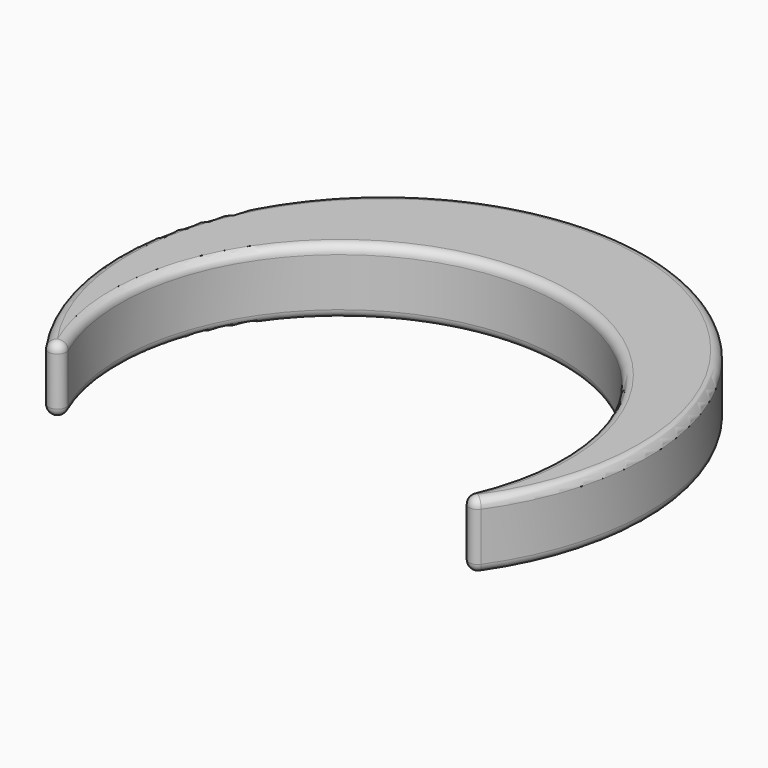
from build123d import *

# Parameters (mm, degrees)
SKETCH_R     = 12
PAD_DEPTH    = 3
SKETCH001_R  = 10
POCKET_DEPTH = 3.001
FILLET_R     = 0.4


with BuildPart() as part:
    # Sketch → Pad (new body)
    with BuildSketch(Plane.XY):
        Circle(SKETCH_R)
    extrude(amount=PAD_DEPTH)

    # Sketch001 → Pocket (cut, through all)
    with BuildSketch(Plane.XY):
        with Locations((0, -2.467762)):
            Circle(SKETCH001_R)
    extrude(amount=POCKET_DEPTH, mode=Mode.SUBTRACT)

    # Fillet
    fillet_edges = [part.edges().sort_by_distance(p)[0] for p in [
        (-5.794891, 10.508056, 3),
        (-4.240751, 6.588508, 3),
        (-5.794891, 10.508056, 0),
        (-4.240751, 6.588508, 0),
        (9.05627, -6.708513, 0),
        (10.508056, -5.794891, 0),
        (6.403207, -10.14884, 1.5),
        (-6.403207, -10.14884, 1.5),
    ]]
    fillet(fillet_edges, radius=FILLET_R)


solid = part.part
